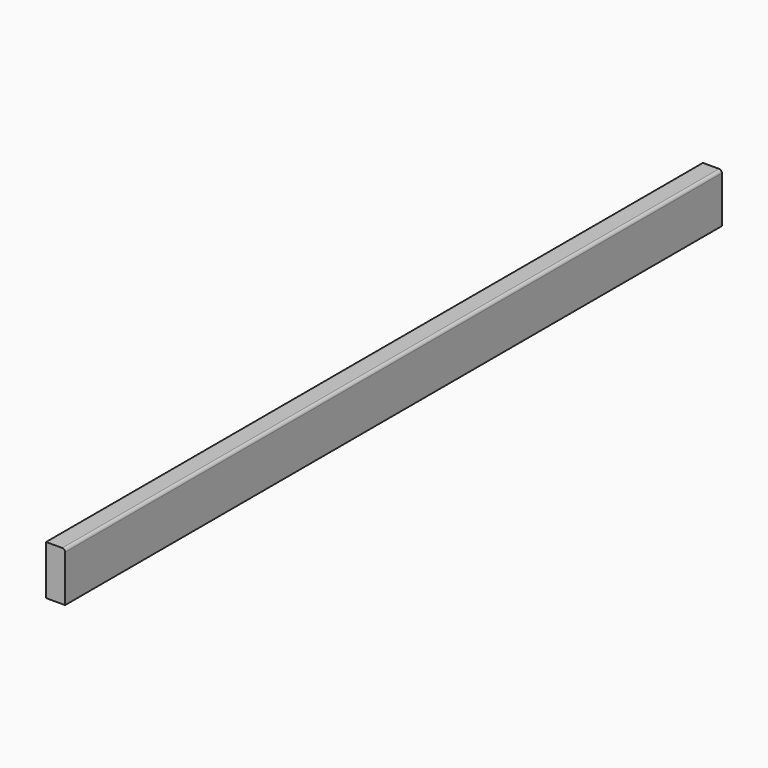
from build123d import *

# Parameters (mm, degrees)
F0_W     = 31.75
F0_H     = 82.55
F1_DEPTH = 1371.6
F2_R     = 4.7625


with BuildPart() as f1:
    # F0 (on Front) → F1 (new body)
    with BuildSketch(Plane.XZ):
        with Locations((15.875, 41.275)):
            Rectangle(F0_W, F0_H)
    extrude(amount=-F1_DEPTH)

    # F2
    f2_edges = [f1.edges().sort_by_distance(p)[0] for p in [
        (31.75, 685.8, 82.55),
    ]]
    fillet(f2_edges, radius=F2_R)


solid = f1.part
